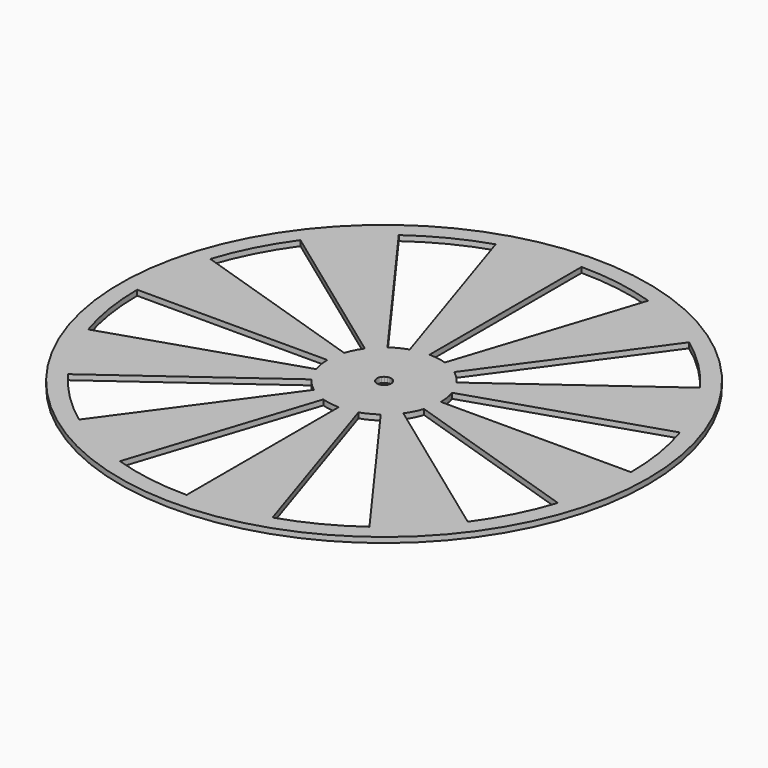
from build123d import *

# Parameters (mm, degrees)
F0_R     = 59.055
F1_DEPTH = 1.1938
F2_DEPTH = 1.1938


with BuildPart() as f1:
    # F0 (on Top) → F1 (new body)
    with BuildSketch(Plane.XY):
        Circle(F0_R)
        with BuildLine():
            ThreePointArc((52.5411172427, 17.0716438542), (54.5648423762, 8.6422220211), (55.245, 0))
            ThreePointArc((55.245, 0), (54.5648423762, -8.6422220211), (52.5411172427, -17.0716438542))
            ThreePointArc((52.5411172427, -17.0716438542), (49.2236554288, -25.0807051581), (44.6941438542, -32.4721962629))
            ThreePointArc((44.6941438542, -32.4721962629), (39.0641141267, -39.0641141267), (32.4721962629, -44.6941438542))
            ThreePointArc((32.4721962629, -44.6941438542), (25.0807051581, -49.2236554288), (17.0716438542, -52.5411172427))
            ThreePointArc((17.0716438542, -52.5411172427), (8.6422220211, -54.5648423762), (0, -55.245))
            ThreePointArc((0, -55.245), (-8.6422220211, -54.5648423762), (-17.0716438542, -52.5411172427))
            ThreePointArc((-17.0716438542, -52.5411172427), (-25.0807051581, -49.2236554288), (-32.4721962629, -44.6941438542))
            ThreePointArc((-32.4721962629, -44.6941438542), (-39.0641141267, -39.0641141267), (-44.6941438542, -32.4721962629))
            ThreePointArc((-44.6941438542, -32.4721962629), (-49.2236554288, -25.0807051581), (-52.5411172427, -17.0716438542))
            ThreePointArc((-52.5411172427, -17.0716438542), (-54.5648423762, -8.6422220211), (-55.245, 0))
            ThreePointArc((-55.245, 0), (-54.5648423762, 8.6422220211), (-52.5411172427, 17.0716438542))
            ThreePointArc((-52.5411172427, 17.0716438542), (-49.2236554288, 25.0807051581), (-44.6941438542, 32.4721962629))
            ThreePointArc((-44.6941438542, 32.4721962629), (-39.0641141267, 39.0641141267), (-32.4721962629, 44.6941438542))
            ThreePointArc((-32.4721962629, 44.6941438542), (-25.0807051581, 49.2236554288), (-17.0716438542, 52.5411172427))
            ThreePointArc((-17.0716438542, 52.5411172427), (-8.6422220211, 54.5648423762), (0, 55.245))
            ThreePointArc((0, 55.245), (8.6422220211, 54.5648423762), (17.0716438542, 52.5411172427))
            ThreePointArc((17.0716438542, 52.5411172427), (25.0807051581, 49.2236554288), (32.4721962629, 44.6941438542))
            ThreePointArc((32.4721962629, 44.6941438542), (39.0641141267, 39.0641141267), (44.6941438542, 32.4721962629))
            ThreePointArc((44.6941438542, 32.4721962629), (49.2236554288, 25.0807051581), (52.5411172427, 17.0716438542))
        make_face(mode=Mode.SUBTRACT)
        with BuildLine():
            ThreePointArc((0, -55.245), (8.6422220211, -54.5648423762), (17.0716438542, -52.5411172427))
            Line((17.0716438542, -52.5411172427), (3.9245158286, -12.0784177569))
            ThreePointArc((3.9245158286, -12.0784177569), (1.986717706, -12.5436419256), (0, -12.7))
            Line((0, -12.7), (0, -55.245))
        make_face()
        with BuildLine():
            ThreePointArc((-3.9245158286, -12.0784177569), (-5.7656793467, -11.3157828572), (-7.4648727041, -10.2745158286))
            Line((-7.4648727041, -10.2745158286), (-32.4721962629, -44.6941438542))
            ThreePointArc((-32.4721962629, -44.6941438542), (-25.0807051581, -49.2236554288), (-17.0716438542, -52.5411172427))
            Line((-17.0716438542, -52.5411172427), (-3.9245158286, -12.0784177569))
        make_face()
        with BuildLine():
            ThreePointArc((-10.2745158286, -7.4648727041), (-11.3157828572, -5.7656793467), (-12.0784177569, -3.9245158286))
            Line((-12.0784177569, -3.9245158286), (-52.5411172427, -17.0716438542))
            ThreePointArc((-52.5411172427, -17.0716438542), (-49.2236554288, -25.0807051581), (-44.6941438542, -32.4721962629))
            Line((-44.6941438542, -32.4721962629), (-10.2745158286, -7.4648727041))
        make_face()
        with BuildLine():
            ThreePointArc((-12.7, 0), (-12.5436419256, 1.986717706), (-12.0784177569, 3.9245158286))
            Line((-12.0784177569, 3.9245158286), (-52.5411172427, 17.0716438542))
            ThreePointArc((-52.5411172427, 17.0716438542), (-54.5648423762, 8.6422220211), (-55.245, 0))
            Line((-55.245, 0), (-12.7, 0))
        make_face()
        with BuildLine():
            ThreePointArc((-10.2745158286, 7.4648727041), (-8.9802561211, 8.9802561211), (-7.4648727041, 10.2745158286))
            Line((-7.4648727041, 10.2745158286), (-32.4721962629, 44.6941438542))
            ThreePointArc((-32.4721962629, 44.6941438542), (-39.0641141267, 39.0641141267), (-44.6941438542, 32.4721962629))
            Line((-44.6941438542, 32.4721962629), (-10.2745158286, 7.4648727041))
        make_face()
        with BuildLine():
            Line((0, 12.7), (0, 55.245))
            ThreePointArc((0, 55.245), (-8.6422220211, 54.5648423762), (-17.0716438542, 52.5411172427))
            Line((-17.0716438542, 52.5411172427), (-3.9245158286, 12.0784177569))
            ThreePointArc((-3.9245158286, 12.0784177569), (-1.986717706, 12.5436419256), (0, 12.7))
        make_face()
        with BuildLine():
            Line((7.4648727041, 10.2745158286), (32.4721962629, 44.6941438542))
            ThreePointArc((32.4721962629, 44.6941438542), (25.0807051581, 49.2236554288), (17.0716438542, 52.5411172427))
            Line((17.0716438542, 52.5411172427), (3.9245158286, 12.0784177569))
            ThreePointArc((3.9245158286, 12.0784177569), (5.7656793467, 11.3157828572), (7.4648727041, 10.2745158286))
        make_face()
        with BuildLine():
            Line((12.0784177569, 3.9245158286), (52.5411172427, 17.0716438542))
            ThreePointArc((52.5411172427, 17.0716438542), (49.2236554288, 25.0807051581), (44.6941438542, 32.4721962629))
            Line((44.6941438542, 32.4721962629), (10.2745158286, 7.4648727041))
            ThreePointArc((10.2745158286, 7.4648727041), (11.3157828572, 5.7656793467), (12.0784177569, 3.9245158286))
        make_face()
        with BuildLine():
            ThreePointArc((52.5411172427, -17.0716438542), (54.5648423762, -8.6422220211), (55.245, 0))
            Line((55.245, 0), (12.7, 0))
            ThreePointArc((12.7, 0), (12.5436419256, -1.986717706), (12.0784177569, -3.9245158286))
            Line((12.0784177569, -3.9245158286), (52.5411172427, -17.0716438542))
        make_face()
        with BuildLine():
            ThreePointArc((32.4721962629, -44.6941438542), (39.0641141267, -39.0641141267), (44.6941438542, -32.4721962629))
            Line((44.6941438542, -32.4721962629), (10.2745158286, -7.4648727041))
            ThreePointArc((10.2745158286, -7.4648727041), (8.9802561211, -8.9802561211), (7.4648727041, -10.2745158286))
            Line((7.4648727041, -10.2745158286), (32.4721962629, -44.6941438542))
        make_face()
        with BuildLine():
            Line((0, 12.7), (0, 1.5875))
            ThreePointArc((0, 1.5875), (0.2483397133, 1.5679552407), (0.4905644786, 1.5098022196))
            Line((0.4905644786, 1.5098022196), (3.9245158286, 12.0784177569))
            ThreePointArc((3.9245158286, 12.0784177569), (1.986717706, 12.5436419256), (0, 12.7))
        make_face()
        with BuildLine():
            ThreePointArc((-0.4905644786, 1.5098022196), (-0.2483397133, 1.5679552407), (0, 1.5875))
            Line((0, 1.5875), (0, 12.7))
            ThreePointArc((0, 12.7), (-1.986717706, 12.5436419256), (-3.9245158286, 12.0784177569))
            Line((-3.9245158286, 12.0784177569), (-0.4905644786, 1.5098022196))
        make_face()
        with BuildLine():
            ThreePointArc((-0.933109088, 1.2843144786), (-0.7207099183, 1.4144728571), (-0.4905644786, 1.5098022196))
            Line((-0.4905644786, 1.5098022196), (-3.9245158286, 12.0784177569))
            ThreePointArc((-3.9245158286, 12.0784177569), (-5.7656793467, 11.3157828572), (-7.4648727041, 10.2745158286))
            Line((-7.4648727041, 10.2745158286), (-0.933109088, 1.2843144786))
        make_face()
        with BuildLine():
            ThreePointArc((-1.2843144786, 0.933109088), (-1.1225320151, 1.1225320151), (-0.933109088, 1.2843144786))
            Line((-0.933109088, 1.2843144786), (-7.4648727041, 10.2745158286))
            ThreePointArc((-7.4648727041, 10.2745158286), (-8.9802561211, 8.9802561211), (-10.2745158286, 7.4648727041))
            Line((-10.2745158286, 7.4648727041), (-1.2843144786, 0.933109088))
        make_face()
        with BuildLine():
            ThreePointArc((-1.5098022196, 0.4905644786), (-1.4144728571, 0.7207099183), (-1.2843144786, 0.933109088))
            Line((-1.2843144786, 0.933109088), (-10.2745158286, 7.4648727041))
            ThreePointArc((-10.2745158286, 7.4648727041), (-11.3157828572, 5.7656793467), (-12.0784177569, 3.9245158286))
            Line((-12.0784177569, 3.9245158286), (-1.5098022196, 0.4905644786))
        make_face()
        with BuildLine():
            ThreePointArc((-1.5875, 0), (-1.5679552407, 0.2483397133), (-1.5098022196, 0.4905644786))
            Line((-1.5098022196, 0.4905644786), (-12.0784177569, 3.9245158286))
            ThreePointArc((-12.0784177569, 3.9245158286), (-12.5436419256, 1.986717706), (-12.7, 0))
            Line((-12.7, 0), (-1.5875, 0))
        make_face()
        with BuildLine():
            ThreePointArc((-1.5098022196, -0.4905644786), (-1.5679552407, -0.2483397133), (-1.5875, 0))
            Line((-1.5875, 0), (-12.7, 0))
            ThreePointArc((-12.7, 0), (-12.5436419256, -1.986717706), (-12.0784177569, -3.9245158286))
            Line((-12.0784177569, -3.9245158286), (-1.5098022196, -0.4905644786))
        make_face()
        with BuildLine():
            ThreePointArc((-1.2843144786, -0.933109088), (-1.4144728571, -0.7207099183), (-1.5098022196, -0.4905644786))
            Line((-1.5098022196, -0.4905644786), (-12.0784177569, -3.9245158286))
            ThreePointArc((-12.0784177569, -3.9245158286), (-11.3157828572, -5.7656793467), (-10.2745158286, -7.4648727041))
            Line((-10.2745158286, -7.4648727041), (-1.2843144786, -0.933109088))
        make_face()
        with BuildLine():
            ThreePointArc((-0.933109088, -1.2843144786), (-1.1225320151, -1.1225320151), (-1.2843144786, -0.933109088))
            Line((-1.2843144786, -0.933109088), (-10.2745158286, -7.4648727041))
            ThreePointArc((-10.2745158286, -7.4648727041), (-8.9802561211, -8.9802561211), (-7.4648727041, -10.2745158286))
            Line((-7.4648727041, -10.2745158286), (-0.933109088, -1.2843144786))
        make_face()
        with BuildLine():
            ThreePointArc((-0.4905644786, -1.5098022196), (-0.7207099183, -1.4144728571), (-0.933109088, -1.2843144786))
            Line((-0.933109088, -1.2843144786), (-7.4648727041, -10.2745158286))
            ThreePointArc((-7.4648727041, -10.2745158286), (-5.7656793467, -11.3157828572), (-3.9245158286, -12.0784177569))
            Line((-3.9245158286, -12.0784177569), (-0.4905644786, -1.5098022196))
        make_face()
        with BuildLine():
            ThreePointArc((0, -1.5875), (-0.2483397133, -1.5679552407), (-0.4905644786, -1.5098022196))
            Line((-0.4905644786, -1.5098022196), (-3.9245158286, -12.0784177569))
            ThreePointArc((-3.9245158286, -12.0784177569), (-1.986717706, -12.5436419256), (0, -12.7))
            Line((0, -12.7), (0, -1.5875))
        make_face()
        with BuildLine():
            ThreePointArc((0.4905644786, -1.5098022196), (0.2483397133, -1.5679552407), (0, -1.5875))
            Line((0, -1.5875), (0, -12.7))
            ThreePointArc((0, -12.7), (1.986717706, -12.5436419256), (3.9245158286, -12.0784177569))
            Line((3.9245158286, -12.0784177569), (0.4905644786, -1.5098022196))
        make_face()
        with BuildLine():
            ThreePointArc((3.9245158286, -12.0784177569), (5.7656793467, -11.3157828572), (7.4648727041, -10.2745158286))
            Line((7.4648727041, -10.2745158286), (0.933109088, -1.2843144786))
            ThreePointArc((0.933109088, -1.2843144786), (0.7207099183, -1.4144728571), (0.4905644786, -1.5098022196))
            Line((0.4905644786, -1.5098022196), (3.9245158286, -12.0784177569))
        make_face()
        with BuildLine():
            ThreePointArc((7.4648727041, -10.2745158286), (8.9802561211, -8.9802561211), (10.2745158286, -7.4648727041))
            Line((10.2745158286, -7.4648727041), (1.2843144786, -0.933109088))
            ThreePointArc((1.2843144786, -0.933109088), (1.1225320151, -1.1225320151), (0.933109088, -1.2843144786))
            Line((0.933109088, -1.2843144786), (7.4648727041, -10.2745158286))
        make_face()
        with BuildLine():
            ThreePointArc((10.2745158286, -7.4648727041), (11.3157828572, -5.7656793467), (12.0784177569, -3.9245158286))
            Line((12.0784177569, -3.9245158286), (1.5098022196, -0.4905644786))
            ThreePointArc((1.5098022196, -0.4905644786), (1.4144728571, -0.7207099183), (1.2843144786, -0.933109088))
            Line((1.2843144786, -0.933109088), (10.2745158286, -7.4648727041))
        make_face()
        with BuildLine():
            ThreePointArc((12.0784177569, -3.9245158286), (12.5436419256, -1.986717706), (12.7, 0))
            Line((12.7, 0), (1.5875, 0))
            ThreePointArc((1.5875, 0), (1.5679552407, -0.2483397133), (1.5098022196, -0.4905644786))
            Line((1.5098022196, -0.4905644786), (12.0784177569, -3.9245158286))
        make_face()
        with BuildLine():
            Line((1.5875, 0), (12.7, 0))
            ThreePointArc((12.7, 0), (12.5436419256, 1.986717706), (12.0784177569, 3.9245158286))
            Line((12.0784177569, 3.9245158286), (1.5098022196, 0.4905644786))
            ThreePointArc((1.5098022196, 0.4905644786), (1.5679552407, 0.2483397133), (1.5875, 0))
        make_face()
        with BuildLine():
            Line((1.5098022196, 0.4905644786), (12.0784177569, 3.9245158286))
            ThreePointArc((12.0784177569, 3.9245158286), (11.3157828572, 5.7656793467), (10.2745158286, 7.4648727041))
            Line((10.2745158286, 7.4648727041), (1.2843144786, 0.933109088))
            ThreePointArc((1.2843144786, 0.933109088), (1.4144728571, 0.7207099183), (1.5098022196, 0.4905644786))
        make_face()
        with BuildLine():
            Line((1.2843144786, 0.933109088), (10.2745158286, 7.4648727041))
            ThreePointArc((10.2745158286, 7.4648727041), (8.9802561211, 8.9802561211), (7.4648727041, 10.2745158286))
            Line((7.4648727041, 10.2745158286), (0.933109088, 1.2843144786))
            ThreePointArc((0.933109088, 1.2843144786), (1.1225320151, 1.1225320151), (1.2843144786, 0.933109088))
        make_face()
        with BuildLine():
            Line((0.933109088, 1.2843144786), (7.4648727041, 10.2745158286))
            ThreePointArc((7.4648727041, 10.2745158286), (5.7656793467, 11.3157828572), (3.9245158286, 12.0784177569))
            Line((3.9245158286, 12.0784177569), (0.4905644786, 1.5098022196))
            ThreePointArc((0.4905644786, 1.5098022196), (0.7207099183, 1.4144728571), (0.933109088, 1.2843144786))
        make_face()
    extrude(amount=F1_DEPTH)

    # F0 (on Top) → F2 (cut)
    with BuildSketch(Plane.XY):
        with BuildLine():
            Line((-0.933109088, -1.2843144786), (0, 0))
            Line((0, 0), (-1.2843144786, -0.933109088))
            ThreePointArc((-1.2843144786, -0.933109088), (-1.1225320151, -1.1225320151), (-0.933109088, -1.2843144786))
        make_face()
        with BuildLine():
            Line((-1.2843144786, -0.933109088), (0, 0))
            Line((0, 0), (-1.5098022196, -0.4905644786))
            ThreePointArc((-1.5098022196, -0.4905644786), (-1.4144728571, -0.7207099183), (-1.2843144786, -0.933109088))
        make_face()
        with BuildLine():
            Line((-1.5098022196, -0.4905644786), (0, 0))
            Line((0, 0), (-1.5875, 0))
            ThreePointArc((-1.5875, 0), (-1.5679552407, -0.2483397133), (-1.5098022196, -0.4905644786))
        make_face()
        with BuildLine():
            Line((-1.5875, 0), (0, 0))
            Line((0, 0), (-1.5098022196, 0.4905644786))
            ThreePointArc((-1.5098022196, 0.4905644786), (-1.5679552407, 0.2483397133), (-1.5875, 0))
        make_face()
        with BuildLine():
            Line((-1.5098022196, 0.4905644786), (0, 0))
            Line((0, 0), (-1.2843144786, 0.933109088))
            ThreePointArc((-1.2843144786, 0.933109088), (-1.4144728571, 0.7207099183), (-1.5098022196, 0.4905644786))
        make_face()
        with BuildLine():
            Line((-1.2843144786, 0.933109088), (0, 0))
            Line((0, 0), (-0.933109088, 1.2843144786))
            ThreePointArc((-0.933109088, 1.2843144786), (-1.1225320151, 1.1225320151), (-1.2843144786, 0.933109088))
        make_face()
        with BuildLine():
            Line((-0.933109088, 1.2843144786), (0, 0))
            Line((0, 0), (-0.4905644786, 1.5098022196))
            ThreePointArc((-0.4905644786, 1.5098022196), (-0.7207099183, 1.4144728571), (-0.933109088, 1.2843144786))
        make_face()
        with BuildLine():
            Line((-0.4905644786, 1.5098022196), (0, 0))
            Line((0, 0), (0, 1.5875))
            ThreePointArc((0, 1.5875), (-0.2483397133, 1.5679552407), (-0.4905644786, 1.5098022196))
        make_face()
        with BuildLine():
            Line((0, 1.5875), (0, 0))
            Line((0, 0), (0.4905644786, 1.5098022196))
            ThreePointArc((0.4905644786, 1.5098022196), (0.2483397133, 1.5679552407), (0, 1.5875))
        make_face()
        with BuildLine():
            Line((0.4905644786, 1.5098022196), (0, 0))
            Line((0, 0), (0.933109088, 1.2843144786))
            ThreePointArc((0.933109088, 1.2843144786), (0.7207099183, 1.4144728571), (0.4905644786, 1.5098022196))
        make_face()
        with BuildLine():
            Line((0.933109088, 1.2843144786), (0, 0))
            Line((0, 0), (1.2843144786, 0.933109088))
            ThreePointArc((1.2843144786, 0.933109088), (1.1225320151, 1.1225320151), (0.933109088, 1.2843144786))
        make_face()
        with BuildLine():
            Line((0, 0), (1.5098022196, 0.4905644786))
            ThreePointArc((1.5098022196, 0.4905644786), (1.4144728571, 0.7207099183), (1.2843144786, 0.933109088))
            Line((1.2843144786, 0.933109088), (0, 0))
        make_face()
        with BuildLine():
            Line((0, 0), (1.5875, 0))
            ThreePointArc((1.5875, 0), (1.5679552407, 0.2483397133), (1.5098022196, 0.4905644786))
            Line((1.5098022196, 0.4905644786), (0, 0))
        make_face()
        with BuildLine():
            ThreePointArc((1.5098022196, -0.4905644786), (1.5679552407, -0.2483397133), (1.5875, 0))
            Line((1.5875, 0), (0, 0))
            Line((0, 0), (1.5098022196, -0.4905644786))
        make_face()
        with BuildLine():
            ThreePointArc((1.2843144786, -0.933109088), (1.4144728571, -0.7207099183), (1.5098022196, -0.4905644786))
            Line((1.5098022196, -0.4905644786), (0, 0))
            Line((0, 0), (1.2843144786, -0.933109088))
        make_face()
        with BuildLine():
            Line((1.2843144786, -0.933109088), (0, 0))
            Line((0, 0), (0.933109088, -1.2843144786))
            ThreePointArc((0.933109088, -1.2843144786), (1.1225320151, -1.1225320151), (1.2843144786, -0.933109088))
        make_face()
        with BuildLine():
            Line((0.933109088, -1.2843144786), (0, 0))
            Line((0, 0), (0.4905644786, -1.5098022196))
            ThreePointArc((0.4905644786, -1.5098022196), (0.7207099183, -1.4144728571), (0.933109088, -1.2843144786))
        make_face()
        with BuildLine():
            Line((0.4905644786, -1.5098022196), (0, 0))
            Line((0, 0), (0, -1.5875))
            ThreePointArc((0, -1.5875), (0.2483397133, -1.5679552407), (0.4905644786, -1.5098022196))
        make_face()
        with BuildLine():
            Line((0, -1.5875), (0, 0))
            Line((0, 0), (-0.4905644786, -1.5098022196))
            ThreePointArc((-0.4905644786, -1.5098022196), (-0.2483397133, -1.5679552407), (0, -1.5875))
        make_face()
        with BuildLine():
            Line((-0.4905644786, -1.5098022196), (0, 0))
            Line((0, 0), (-0.933109088, -1.2843144786))
            ThreePointArc((-0.933109088, -1.2843144786), (-0.7207099183, -1.4144728571), (-0.4905644786, -1.5098022196))
        make_face()
    extrude(amount=-F2_DEPTH, mode=Mode.SUBTRACT)


solid = f1.part
